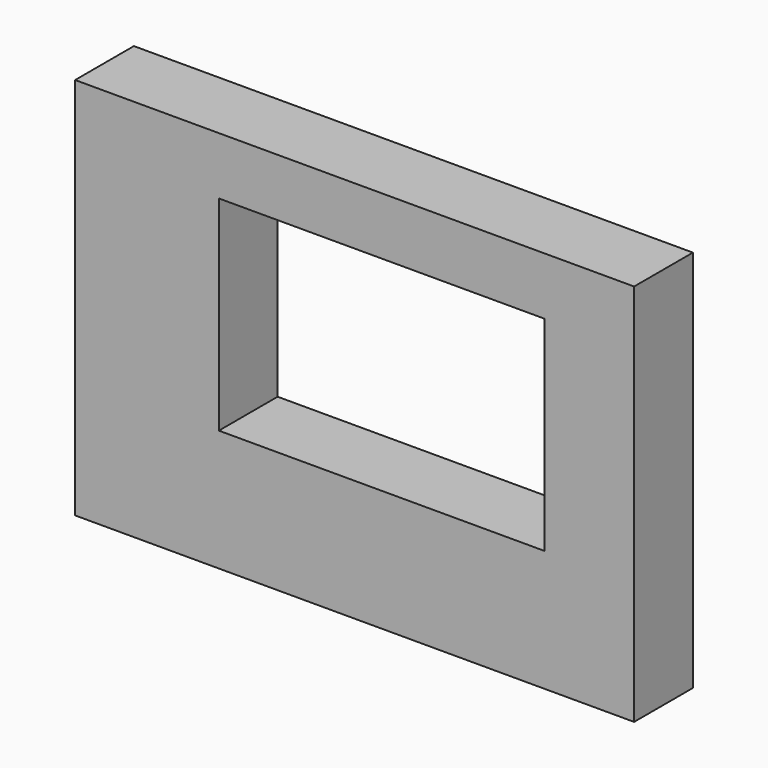
from build123d import *

# Parameters (mm, degrees)
BOX043_W               = 30
BOX043_H               = 64
BOX043_DEPTH           = 102
BOX042_W               = 175
BOX042_H               = 120
BOX042_DEPTH           = 23
CUT013_ROLL_ANGLE      = -90
CUT013_PLACEMENT_ANGLE = -180


with BuildPart() as cube038:
    # Box043 → Box043 (new body)
    with BuildSketch(Plane(origin=(28, 18, 27), x_dir=(0, 0, -1), z_dir=(1, 0, 0))):
        with Locations((15, 32)):
            Rectangle(BOX043_W, BOX043_H)
    extrude(amount=BOX043_DEPTH)


with BuildPart() as obj1:
    # Box042 → Box042 (new body)
    with BuildSketch(Plane.XY):
        with Locations((87.5, 60)):
            Rectangle(BOX042_W, BOX042_H)
    extrude(amount=BOX042_DEPTH)

    # Cut013: cut Cube038
    add(cube038.part, mode=Mode.SUBTRACT)


with BuildPart() as obj1_1:
    # Cut013 roll: moved
    add(obj1.part.rotate(Axis((0, 0, 0), (1, 0, 0)), CUT013_ROLL_ANGLE))


with BuildPart() as obj1_2:
    # Cut013 placement: moved
    add(obj1_1.part.moved(Location((185, 241, 13))).rotate(Axis((185, 241, 13), (0, 0, 1)), CUT013_PLACEMENT_ANGLE))


solid = obj1_2.part
